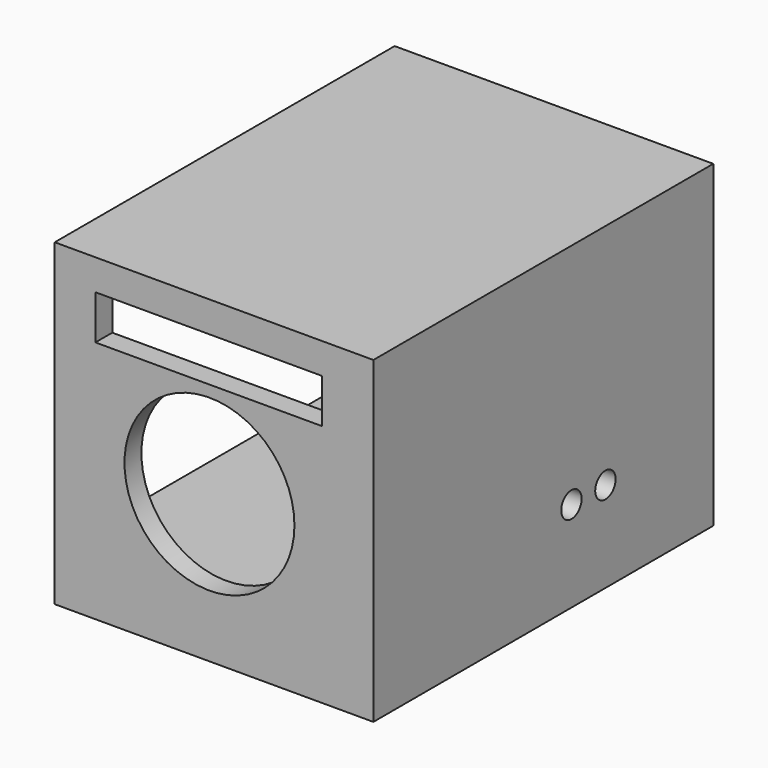
from build123d import *

# Parameters (mm, degrees)
BOX_W           = 150
BOX_H           = 200
BOX_DEPTH       = 150
SKETCH_W        = 179.911882
SKETCH_H        = 115.378512
SKETCH_W_2      = 179.911881
SKETCH_H_2      = 12.61254
POCKET_DEPTH    = 140
SKETCH001_R     = 40
SKETCH001_W     = 594.158722
SKETCH001_H     = 187.959229
SKETCH001_W_2   = 106.580839
SKETCH001_H_2   = 20.811958
POCKET001_DEPTH = 20
SKETCH002_R     = 6
POCKET002_DEPTH = 20


with BuildPart() as part:
    # Box → Box (new body)
    with BuildSketch(Plane.XY):
        with Locations((75, 100)):
            Rectangle(BOX_W, BOX_H)
    extrude(amount=BOX_DEPTH)

    # Sketch → Pocket (cut)
    with BuildSketch(Plane(origin=(0, 0, 0), x_dir=(0, -1, 0), z_dir=(-1, 0, 0))):
        with Locations((-99.900999, 79.694251)):
            Rectangle(SKETCH_W, SKETCH_H)
        with Locations((-99.925957, 9.698538)):
            Rectangle(SKETCH_W_2, SKETCH_H_2)
    extrude(amount=-POCKET_DEPTH, mode=Mode.SUBTRACT)

    # Sketch001 → Pocket001 (cut)
    with BuildSketch(Plane.XZ):
        with Locations((72.839142, 69.31189)):
            Circle(SKETCH001_R)
        with Locations((757.154067, 877.348939)):
            Rectangle(SKETCH001_W, SKETCH001_H)
        with Locations((72.430153, 125.12305)):
            Rectangle(SKETCH001_W_2, SKETCH001_H_2)
    extrude(amount=-POCKET001_DEPTH, mode=Mode.SUBTRACT)

    # Sketch002 → Pocket002 (cut)
    with BuildSketch(Plane.YZ.offset(150)):
        with Locations((116.542318, 42.688718)):
            Circle(SKETCH002_R)
        with Locations((136.542318, 42.688718)):
            Circle(SKETCH002_R)
    extrude(amount=-POCKET002_DEPTH, mode=Mode.SUBTRACT)


solid = part.part
